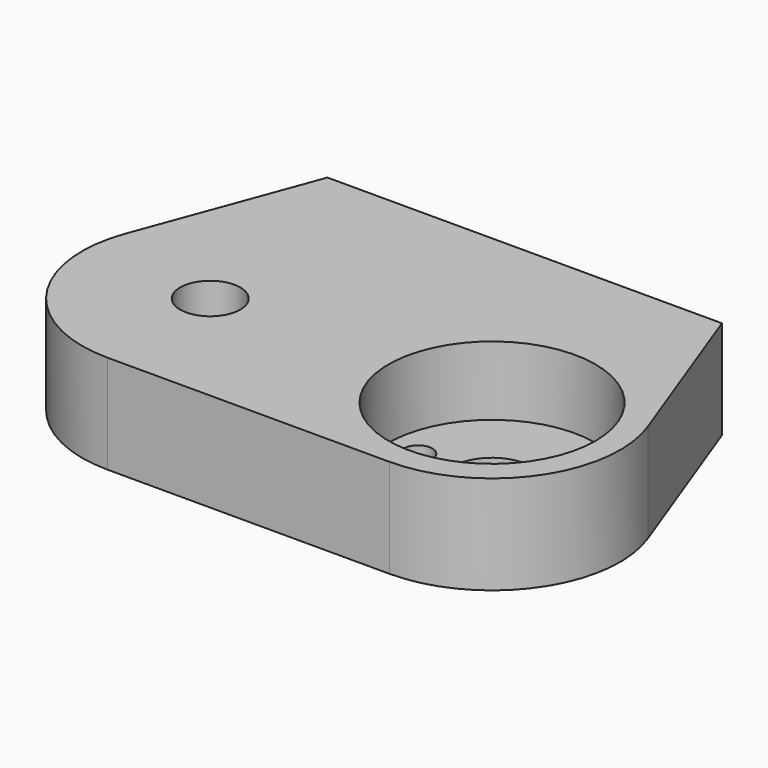
from build123d import *

# Parameters (mm, degrees)
SKETCH002_R     = 4
SKETCH002_R_2   = 1.45
SKETCH002_R_3   = 3.05
PAD002_DEPTH    = 10
SKETCH003_R     = 10.5
POCKET_DEPTH    = 7
SKETCH004_R     = 1.7
POCKET001_DEPTH = 5


with BuildPart() as part:
    # Sketch002 → Pad002 (new body)
    with BuildSketch(Plane.XY):
        with BuildLine():
            Line((-34.2875, 22), (5.7125, 22))
            Line((5.7125, 22), (12.190202, 4.516521))
            ThreePointArc((0, -13), (10.670398, -7.425807), (12.190202, 4.516521))
            Line((0, -13), (-28.575, -13))
            ThreePointArc((-40.765202, 4.516521), (-39.245398, -7.425807), (-28.575, -13))
            Line((-40.765202, 4.516521), (-34.2875, 22))
        make_face()
        Circle(SKETCH002_R, mode=Mode.SUBTRACT)
        with Locations((7.5, 0)):
            Circle(SKETCH002_R_2, mode=Mode.SUBTRACT)
        with Locations((-7.5, 0)):
            Circle(SKETCH002_R_2, mode=Mode.SUBTRACT)
        with Locations((-28.575, 0)):
            Circle(SKETCH002_R_3, mode=Mode.SUBTRACT)
    extrude(amount=PAD002_DEPTH)

    # Sketch003 → Pocket (cut)
    with BuildSketch(Plane.XY.offset(3)):
        Circle(SKETCH003_R)
    extrude(amount=POCKET_DEPTH, mode=Mode.SUBTRACT)

    # Sketch004 → Pocket001 (cut)
    with BuildSketch(Plane.XZ.offset(-22)):
        with Locations((-29.2875, 5)):
            Circle(SKETCH004_R)
        with Locations((0.7125, 5)):
            Circle(SKETCH004_R)
    extrude(amount=POCKET001_DEPTH, mode=Mode.SUBTRACT)


solid = part.part
